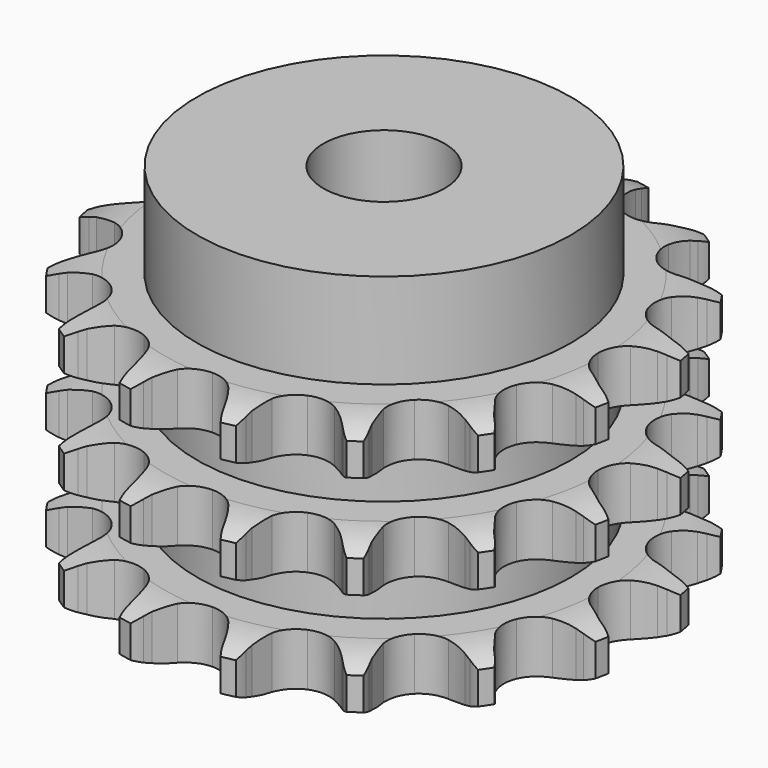
from build123d import *

# Parameters (mm, degrees)
PAD_DEPTH         = 25.6
SKETCH001_R       = 18.5
PAD001_DEPTH      = 35
SKETCH002_R       = 6
POCKET_DEPTH      = 0.001
POCKET_DEPTH_BACK = 35.001


with BuildPart() as part:
    # Sprocket → Pad (new body)
    with BuildSketch(Plane.XY):
        with BuildLine():
            ThreePointArc((-5.310667, 26.698526), (-4.508273, 25.848464), (-3.912951, 24.842466))
            Line((-3.912951, 24.842466), (-3.613995, 24.178808))
            ThreePointArc((-3.613995, 24.178808), (-3.122753, 23.250033), (-2.518227, 22.390678))
            ThreePointArc((-2.518227, 22.390678), (-1.396465, 21.500384), (0, 21.182795))
            ThreePointArc((0, 21.182795), (1.396465, 21.500384), (2.518227, 22.390678))
            ThreePointArc((2.518227, 22.390678), (3.122753, 23.250033), (3.613995, 24.178808))
            Line((3.613995, 24.178808), (3.912951, 24.842466))
            ThreePointArc((3.912951, 24.842466), (4.508273, 25.848464), (5.310667, 26.698526))
            ThreePointArc((5.310667, 26.698526), (5.726678, 25.606108), (5.891705, 24.448867))
            Line((5.891705, 24.448867), (5.913933, 23.721322))
            ThreePointArc((5.913933, 23.721322), (6.012355, 22.675256), (6.242003, 21.649973))
            ThreePointArc((6.242003, 21.649973), (6.937676, 20.398169), (8.106305, 19.57035))
            ThreePointArc((8.106305, 19.57035), (9.518006, 19.329361), (10.895081, 19.722606))
            Line((10.895081, 19.722606), (12.591725, 20.95529))
            ThreePointArc((12.591725, 20.95529), (12.851346, 21.210465), (13.121895, 21.454024))
            ThreePointArc((13.121895, 21.454024), (14.05688, 22.155625), (15.1235, 22.633917))
            ThreePointArc((15.1235, 22.633917), (15.089794, 21.465455), (14.799402, 20.33315))
            Line((14.799402, 20.33315), (14.541519, 19.65248))
            ThreePointArc((14.541519, 19.65248), (14.232137, 18.648376), (14.051945, 17.613256))
            ThreePointArc((14.051945, 17.613256), (14.215618, 16.190517), (14.978498, 14.978498))
            ThreePointArc((14.978498, 14.978498), (16.190517, 14.215618), (17.613256, 14.051945))
            Line((17.613256, 14.051945), (19.65248, 14.541519))
            ThreePointArc((19.65248, 14.541519), (19.989989, 14.677918), (20.33315, 14.799402))
            ThreePointArc((20.33315, 14.799402), (21.465455, 15.089794), (22.633917, 15.1235))
            ThreePointArc((22.633917, 15.1235), (22.155625, 14.05688), (21.454024, 13.121895))
            Line((21.454024, 13.121895), (20.95529, 12.591725))
            ThreePointArc((20.95529, 12.591725), (20.285204, 11.78245), (19.722606, 10.895081))
            ThreePointArc((19.722606, 10.895081), (19.329361, 9.518006), (19.57035, 8.106305))
            ThreePointArc((19.57035, 8.106305), (20.398169, 6.937676), (21.649973, 6.242003))
            Line((21.649973, 6.242003), (23.721322, 5.913933))
            ThreePointArc((23.721322, 5.913933), (24.085338, 5.91079), (24.448867, 5.891705))
            ThreePointArc((24.448867, 5.891705), (25.606108, 5.726678), (26.698526, 5.310667))
            ThreePointArc((26.698526, 5.310667), (25.848464, 4.508273), (24.842466, 3.912951))
            Line((24.842466, 3.912951), (24.178808, 3.613995))
            ThreePointArc((24.178808, 3.613995), (23.250033, 3.122753), (22.390678, 2.518227))
            ThreePointArc((22.390678, 2.518227), (21.500384, 1.396465), (21.182795, 0))
            ThreePointArc((21.182795, 0), (21.500384, -1.396465), (22.390678, -2.518227))
            Line((22.390678, -2.518227), (24.178808, -3.613995))
            ThreePointArc((24.178808, -3.613995), (24.513912, -3.756202), (24.842466, -3.912951))
            ThreePointArc((24.842466, -3.912951), (25.848464, -4.508273), (26.698526, -5.310667))
            ThreePointArc((26.698526, -5.310667), (25.606108, -5.726678), (24.448867, -5.891705))
            Line((24.448867, -5.891705), (23.721322, -5.913933))
            ThreePointArc((23.721322, -5.913933), (22.675256, -6.012355), (21.649973, -6.242003))
            ThreePointArc((21.649973, -6.242003), (20.398169, -6.937676), (19.57035, -8.106305))
            ThreePointArc((19.57035, -8.106305), (19.329361, -9.518006), (19.722606, -10.895081))
            Line((19.722606, -10.895081), (20.95529, -12.591725))
            ThreePointArc((20.95529, -12.591725), (21.210465, -12.851346), (21.454024, -13.121895))
            ThreePointArc((21.454024, -13.121895), (22.155625, -14.05688), (22.633917, -15.1235))
            ThreePointArc((22.633917, -15.1235), (21.465455, -15.089794), (20.33315, -14.799402))
            Line((20.33315, -14.799402), (19.65248, -14.541519))
            ThreePointArc((19.65248, -14.541519), (18.648376, -14.232137), (17.613256, -14.051945))
            ThreePointArc((17.613256, -14.051945), (16.190517, -14.215618), (14.978498, -14.978498))
            ThreePointArc((14.978498, -14.978498), (14.215618, -16.190517), (14.051945, -17.613256))
            Line((14.051945, -17.613256), (14.541519, -19.65248))
            ThreePointArc((14.541519, -19.65248), (14.677918, -19.989989), (14.799402, -20.33315))
            ThreePointArc((14.799402, -20.33315), (15.089794, -21.465455), (15.1235, -22.633917))
            ThreePointArc((15.1235, -22.633917), (14.05688, -22.155625), (13.121895, -21.454024))
            Line((13.121895, -21.454024), (12.591725, -20.95529))
            ThreePointArc((12.591725, -20.95529), (11.78245, -20.285204), (10.895081, -19.722606))
            ThreePointArc((10.895081, -19.722606), (9.518006, -19.329361), (8.106305, -19.57035))
            ThreePointArc((8.106305, -19.57035), (6.937676, -20.398169), (6.242003, -21.649973))
            Line((6.242003, -21.649973), (5.913933, -23.721322))
            ThreePointArc((5.913933, -23.721322), (5.91079, -24.085338), (5.891705, -24.448867))
            ThreePointArc((5.891705, -24.448867), (5.726678, -25.606108), (5.310667, -26.698526))
            ThreePointArc((5.310667, -26.698526), (4.508273, -25.848464), (3.912951, -24.842466))
            Line((3.912951, -24.842466), (3.613995, -24.178808))
            ThreePointArc((3.613995, -24.178808), (3.122753, -23.250033), (2.518227, -22.390678))
            ThreePointArc((2.518227, -22.390678), (1.396465, -21.500384), (0, -21.182795))
            ThreePointArc((0, -21.182795), (-1.396465, -21.500384), (-2.518227, -22.390678))
            Line((-2.518227, -22.390678), (-3.613995, -24.178808))
            ThreePointArc((-3.613995, -24.178808), (-3.756202, -24.513912), (-3.912951, -24.842466))
            ThreePointArc((-3.912951, -24.842466), (-4.508273, -25.848464), (-5.310667, -26.698526))
            ThreePointArc((-5.310667, -26.698526), (-5.726678, -25.606108), (-5.891705, -24.448867))
            Line((-5.891705, -24.448867), (-5.913933, -23.721322))
            ThreePointArc((-5.913933, -23.721322), (-6.012355, -22.675256), (-6.242003, -21.649973))
            ThreePointArc((-6.242003, -21.649973), (-6.937676, -20.398169), (-8.106305, -19.57035))
            ThreePointArc((-8.106305, -19.57035), (-9.518006, -19.329361), (-10.895081, -19.722606))
            Line((-10.895081, -19.722606), (-12.591725, -20.95529))
            ThreePointArc((-12.591725, -20.95529), (-12.851346, -21.210465), (-13.121895, -21.454024))
            ThreePointArc((-13.121895, -21.454024), (-14.05688, -22.155625), (-15.1235, -22.633917))
            ThreePointArc((-15.1235, -22.633917), (-15.089794, -21.465455), (-14.799402, -20.33315))
            Line((-14.799402, -20.33315), (-14.541519, -19.65248))
            ThreePointArc((-14.541519, -19.65248), (-14.232137, -18.648376), (-14.051945, -17.613256))
            ThreePointArc((-14.051945, -17.613256), (-14.215618, -16.190517), (-14.978498, -14.978498))
            ThreePointArc((-14.978498, -14.978498), (-16.190517, -14.215618), (-17.613256, -14.051945))
            Line((-17.613256, -14.051945), (-19.65248, -14.541519))
            ThreePointArc((-19.65248, -14.541519), (-19.989989, -14.677918), (-20.33315, -14.799402))
            ThreePointArc((-20.33315, -14.799402), (-21.465455, -15.089794), (-22.633917, -15.1235))
            ThreePointArc((-22.633917, -15.1235), (-22.155625, -14.05688), (-21.454024, -13.121895))
            Line((-21.454024, -13.121895), (-20.95529, -12.591725))
            ThreePointArc((-20.95529, -12.591725), (-20.285204, -11.78245), (-19.722606, -10.895081))
            ThreePointArc((-19.722606, -10.895081), (-19.329361, -9.518006), (-19.57035, -8.106305))
            ThreePointArc((-19.57035, -8.106305), (-20.398169, -6.937676), (-21.649973, -6.242003))
            Line((-21.649973, -6.242003), (-23.721322, -5.913933))
            ThreePointArc((-23.721322, -5.913933), (-24.085338, -5.91079), (-24.448867, -5.891705))
            ThreePointArc((-24.448867, -5.891705), (-25.606108, -5.726678), (-26.698526, -5.310667))
            ThreePointArc((-26.698526, -5.310667), (-25.848464, -4.508273), (-24.842466, -3.912951))
            Line((-24.842466, -3.912951), (-24.178808, -3.613995))
            ThreePointArc((-24.178808, -3.613995), (-23.250033, -3.122753), (-22.390678, -2.518227))
            ThreePointArc((-22.390678, -2.518227), (-21.500384, -1.396465), (-21.182795, 0))
            ThreePointArc((-21.182795, 0), (-21.500384, 1.396465), (-22.390678, 2.518227))
            Line((-22.390678, 2.518227), (-24.178808, 3.613995))
            ThreePointArc((-24.178808, 3.613995), (-24.513912, 3.756202), (-24.842466, 3.912951))
            ThreePointArc((-24.842466, 3.912951), (-25.848464, 4.508273), (-26.698526, 5.310667))
            ThreePointArc((-26.698526, 5.310667), (-25.606108, 5.726678), (-24.448867, 5.891705))
            Line((-24.448867, 5.891705), (-23.721322, 5.913933))
            ThreePointArc((-23.721322, 5.913933), (-22.675256, 6.012355), (-21.649973, 6.242003))
            ThreePointArc((-21.649973, 6.242003), (-20.398169, 6.937676), (-19.57035, 8.106305))
            ThreePointArc((-19.57035, 8.106305), (-19.329361, 9.518006), (-19.722606, 10.895081))
            Line((-19.722606, 10.895081), (-20.95529, 12.591725))
            ThreePointArc((-20.95529, 12.591725), (-21.210465, 12.851346), (-21.454024, 13.121895))
            ThreePointArc((-21.454024, 13.121895), (-22.155625, 14.05688), (-22.633917, 15.1235))
            ThreePointArc((-22.633917, 15.1235), (-21.465455, 15.089794), (-20.33315, 14.799402))
            Line((-20.33315, 14.799402), (-19.65248, 14.541519))
            ThreePointArc((-19.65248, 14.541519), (-18.648376, 14.232137), (-17.613256, 14.051945))
            ThreePointArc((-17.613256, 14.051945), (-16.190517, 14.215618), (-14.978498, 14.978498))
            ThreePointArc((-14.978498, 14.978498), (-14.215618, 16.190517), (-14.051945, 17.613256))
            Line((-14.051945, 17.613256), (-14.541519, 19.65248))
            ThreePointArc((-14.541519, 19.65248), (-14.677918, 19.989989), (-14.799402, 20.33315))
            ThreePointArc((-14.799402, 20.33315), (-15.089794, 21.465455), (-15.1235, 22.633917))
            ThreePointArc((-15.1235, 22.633917), (-14.05688, 22.155625), (-13.121895, 21.454024))
            Line((-13.121895, 21.454024), (-12.591725, 20.95529))
            ThreePointArc((-12.591725, 20.95529), (-11.78245, 20.285204), (-10.895081, 19.722606))
            ThreePointArc((-10.895081, 19.722606), (-9.518006, 19.329361), (-8.106305, 19.57035))
            ThreePointArc((-8.106305, 19.57035), (-6.937676, 20.398169), (-6.242003, 21.649973))
            Line((-6.242003, 21.649973), (-5.913933, 23.721322))
            ThreePointArc((-5.913933, 23.721322), (-5.91079, 24.085338), (-5.891705, 24.448867))
            ThreePointArc((-5.891705, 24.448867), (-5.726678, 25.606108), (-5.310667, 26.698526))
        make_face()
    extrude(amount=PAD_DEPTH)

    # Sketch → Groove (revolve, cut)
    with BuildSketch(Plane.XZ):
        with BuildLine():
            ThreePointArc((21.791101, 0), (24.027169, 0.253206), (26.15, 1))
            Line((26.15, 1), (26.15, 4.2))
            ThreePointArc((26.15, 4.2), (24.027169, 4.946794), (21.791101, 5.2))
            Line((18.5, 5.2), (21.791101, 5.2))
            Line((18.5, 5.2), (18.5, 10.2))
            Line((18.5, 10.2), (21.791101, 10.2))
            ThreePointArc((21.791101, 10.2), (24.027169, 10.453206), (26.15, 11.2))
            Line((26.15, 14.4), (26.15, 11.2))
            ThreePointArc((26.15, 14.4), (24.027169, 15.146794), (21.791101, 15.4))
            Line((18.5, 15.4), (21.791101, 15.4))
            Line((18.5, 20.4), (18.5, 15.4))
            Line((21.791101, 20.4), (18.5, 20.4))
            ThreePointArc((21.791101, 20.4), (24.027169, 20.653206), (26.15, 21.4))
            Line((26.15, 21.4), (26.15, 24.6))
            ThreePointArc((26.15, 24.6), (24.027169, 25.346794), (21.791101, 25.6))
            Line((21.791101, 25.6), (36.15, 25.6))
            Line((36.15, 25.6), (36.15, 0))
            Line((21.791101, 0), (36.15, 0))
        make_face()
    revolve(axis=Axis((0, 0, 0), (0, 0, 1)), mode=Mode.SUBTRACT)

    # Sketch001 → Pad001 (join)
    with BuildSketch(Plane.XY):
        Circle(SKETCH001_R)
    extrude(amount=PAD001_DEPTH)

    # Sketch002 → Pocket (cut, two sides)
    with BuildSketch(Plane.XY) as pocket_sk:
        Circle(SKETCH002_R)
    extrude(amount=-POCKET_DEPTH, mode=Mode.SUBTRACT)
    extrude(pocket_sk.sketch, amount=POCKET_DEPTH_BACK, mode=Mode.SUBTRACT)


solid = part.part
